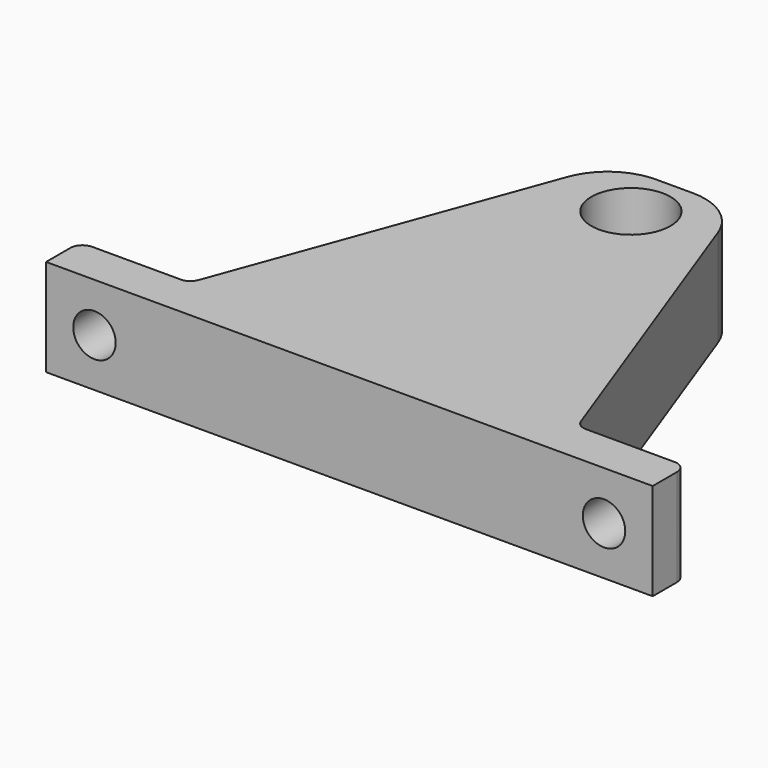
from build123d import *

# Parameters (mm, degrees)
SKETCH_R       = 6.52296
PAD_DEPTH      = 16
SKETCH001_R    = 3.5
HOLE_DEPTH     = 10
HOLE_TIPS_R    = 3.5
SKETCH002_R    = 3.5
HOLE001_DEPTH  = 8
HOLE001_TIPS_R = 3.5
FILLET_R       = 10
FILLET001_R    = 10
FILLET002_R    = 2
FILLET003_R    = 2
FILLET004_R    = 2
FILLET005_R    = 2


with BuildPart() as part:
    # Sketch → Pad (new body)
    with BuildSketch(Plane.XY):
        Polygon((-100, 0), (0, 0), (0, 7), (-18, 7), (-40, 67), (-60, 67), (-82, 7), (-100, 7), align=None)
        with Locations((-50.016819, 58.031078)):
            Circle(SKETCH_R, mode=Mode.SUBTRACT)
    extrude(amount=PAD_DEPTH)

    # Sketch001 → Hole (cut)
    with BuildSketch(Plane.XZ):
        with Locations((-92.026695, 7.972088)):
            Circle(SKETCH001_R)
    extrude(amount=-HOLE_DEPTH, mode=Mode.SUBTRACT)

    # Hole tips → Hole tip 1 section 0
    with BuildSketch(Plane.XZ.offset(-10), mode=Mode.PRIVATE) as hole_tip_1_s0:
        with Locations((-92.026695, 7.972088)):
            Circle(HOLE_TIPS_R)
    loft([hole_tip_1_s0.sketch, Vertex(-92.026695, 12.103012, 7.972088)], mode=Mode.SUBTRACT)

    # Sketch002 → Hole001 (cut)
    with BuildSketch(Plane.XZ):
        with Locations((-8.022125, 7.974626)):
            Circle(SKETCH002_R)
    extrude(amount=-HOLE001_DEPTH, mode=Mode.SUBTRACT)

    # Hole001 tips → Hole001 tip 1 section 0
    with BuildSketch(Plane.XZ.offset(-8), mode=Mode.PRIVATE) as hole001_tip_1_s0:
        with Locations((-8.022125, 7.974626)):
            Circle(HOLE001_TIPS_R)
    loft([hole001_tip_1_s0.sketch, Vertex(-8.022125, 10.103012, 7.974626)], mode=Mode.SUBTRACT)

    # Fillet
    fillet_edges = [part.edges().sort_by_distance(p)[0] for p in [
        (-40, 67, 8),
    ]]
    fillet(fillet_edges, radius=FILLET_R)

    # Fillet001
    fillet001_edges = [part.edges().sort_by_distance(p)[0] for p in [
        (-60, 67, 8),
    ]]
    fillet(fillet001_edges, radius=FILLET001_R)

    # Fillet002
    fillet002_edges = [part.edges().sort_by_distance(p)[0] for p in [
        (-82, 7, 8),
    ]]
    fillet(fillet002_edges, radius=FILLET002_R)

    # Fillet003
    fillet003_edges = [part.edges().sort_by_distance(p)[0] for p in [
        (-18, 7, 8),
    ]]
    fillet(fillet003_edges, radius=FILLET003_R)

    # Fillet004
    fillet004_edges = [part.edges().sort_by_distance(p)[0] for p in [
        (0, 7, 8),
    ]]
    fillet(fillet004_edges, radius=FILLET004_R)

    # Fillet005
    fillet005_edges = [part.edges().sort_by_distance(p)[0] for p in [
        (-100, 7, 8),
    ]]
    fillet(fillet005_edges, radius=FILLET005_R)


solid = part.part
